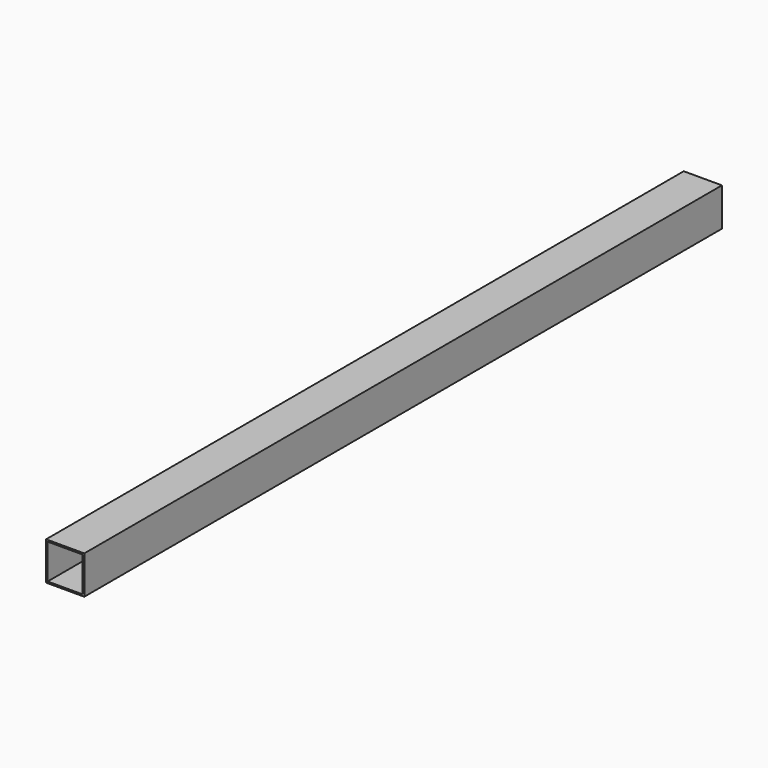
from build123d import *

# Parameters (mm, degrees)
BOX_W       = 76.2
BOX_H       = 1590.55
BOX_DEPTH   = 76.2
THICKNESS_T = -3.175


with BuildPart() as part:
    # Box → Box (new body)
    with BuildSketch(Plane.XY):
        with Locations((38.1, 795.275)):
            Rectangle(BOX_W, BOX_H)
    extrude(amount=BOX_DEPTH)

    # Thickness
    thickness_openings = [part.faces().sort_by_distance(p)[0] for p in [
        (38.1, 0, 38.1),
        (38.1, 1590.55, 38.1),
    ]]
    offset(amount=THICKNESS_T, openings=thickness_openings)


solid = part.part
